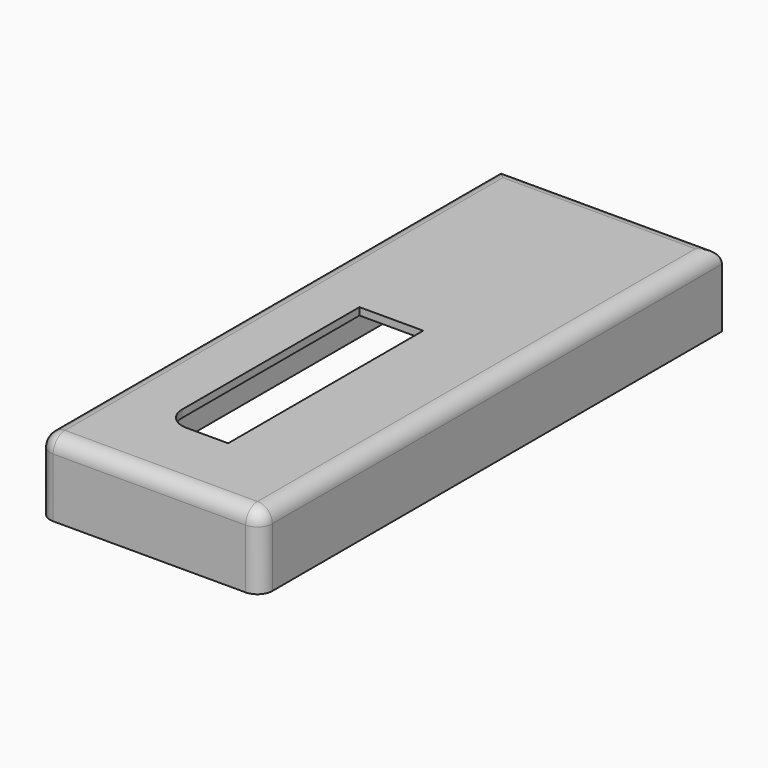
from build123d import *

# Parameters (mm, degrees)
F0_W     = 76.2
F0_H     = 70.9098950028
F1_DEPTH = 25.4
F2_DEPTH = 127
F3_R     = 5.08
F5_T     = -2.54
F4_W     = 21.8821829185
F4_H     = 83.6660973728
F6_DEPTH = 25.4
F7_R     = 7.62


with BuildPart() as f1:
    # F0 (on Top) → F1 (new body)
    with BuildSketch(Plane.XY):
        with Locations((2.9095611587, 1.1818297207)):
            Rectangle(F0_W, F0_H)
    extrude(amount=F1_DEPTH)

    # F2 (add): a face of the model
    f2_faces = [f1.faces().sort_by_distance(p)[0] for p in [
        (2.9095611587, -34.2731177807, 12.7),
    ]]
    extrude(f2_faces, amount=F2_DEPTH)

    # F3
    f3_edges = [f1.edges().sort_by_distance(p)[0] for p in [
        (2.909561, 36.636777, 25.4),
        (-35.190439, -62.31817, 25.4),
        (2.909561, -161.273118, 25.4),
        (41.009561, -62.31817, 25.4),
        (41.009561, -161.273118, 12.7),
        (-35.190439, -161.273118, 12.7),
    ]]
    fillet(f3_edges, radius=F3_R)

    # F5
    f5_openings = [f1.faces().sort_by_distance(p)[0] for p in [
        (2.909561, -62.246272, 0),
    ]]
    offset(amount=F5_T, openings=f5_openings)

    # F4 (on face) → F6 (cut)
    with BuildSketch(Plane(origin=(0, 0, 0), x_dir=(1, 0, 0), z_dir=(0, 0, -1))):
        with Locations((-2.2429865785, 92.903772369)):
            Rectangle(F4_W, F4_H)
    extrude(amount=-F6_DEPTH, mode=Mode.SUBTRACT)

    # F7
    f7_edges = [f1.edges().sort_by_distance(p)[0] for p in [
        (-13.184078, -134.736821, 24.13),
    ]]
    fillet(f7_edges, radius=F7_R)


solid = f1.part
